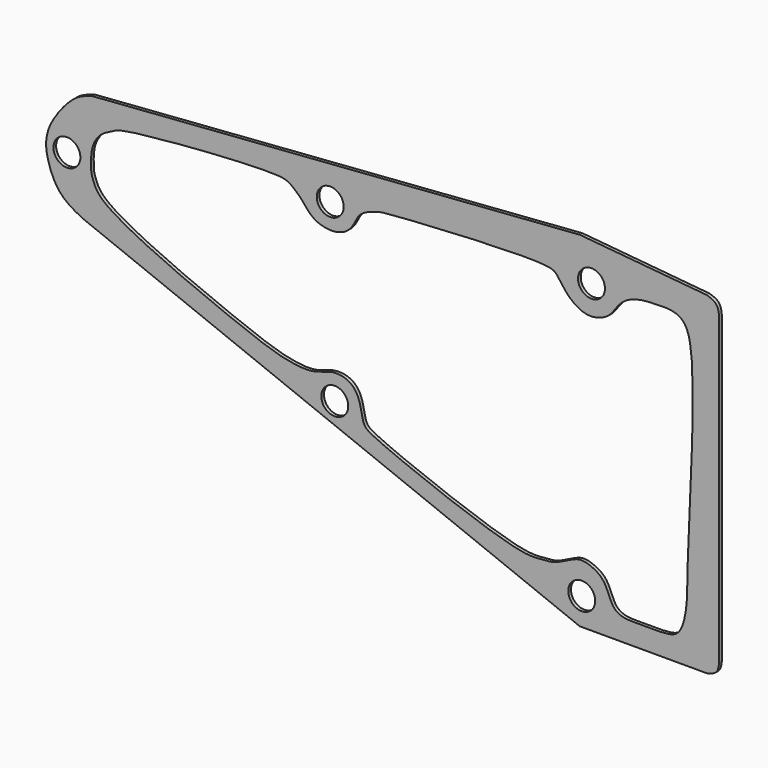
from build123d import *

# Parameters (mm, degrees)
F0_R     = 2
F1_DEPTH = 0.5


with BuildPart() as f1:
    # F0 (on Front) → F1 (new body)
    with BuildSketch(Plane.XZ):
        with BuildLine():
            Line((25.4466477782, 28.9929937571), (-46.9182245433, 23.5753022134))
            add(Edge.make_bspline(
                [(-46.9182245433, 23.5753022134), (-48.4807805487, 23.1375500148), (-49.4116474821, 22.5580963217), (-50.8578941044, 21.2783383598), (-52.6290423715, 18.9638750224), (-53.5570588992, 17.0342087667), (-53.9100611629, 15.0398825036), (-53.5076549067, 12.8899710969), (-52.5765177314, 10.4457062862), (-50.9809949034, 8.4937025788), (-49.2919931257, 7.5867975335), (-48.3693890274, 7.1287415922)],
                knots=[0, 0, 0, 0, 0.1213511642, 0.2152622966, 0.3377424682, 0.443523652, 0.5432608072, 0.6489424943, 0.7644282008, 0.8769296468, 1, 1, 1, 1], degree=3))
            Line((-48.3693890274, 7.1287415922), (25.4466477782, -22.1848357469))
            Line((25.4466477782, -22.1848357469), (44.3118214607, -22.1848357469))
            add(Edge.make_bspline(
                [(46.1499653757, -20.1532002538), (46.0819666478, -20.691468519), (45.9448246604, -21.7770649999), (44.8591759893, -22.0481580202), (44.3118214607, -22.1848357469)],
                knots=[0, 0, 0, 0, 0.4958272016, 1, 1, 1, 1], degree=3))
            Line((46.1499653757, -20.1532002538), (46.1499653757, 25.0264704227))
            add(Edge.make_bspline(
                [(44.3118214607, 27.251591906), (44.8449882872, 27.0679745153), (45.9112488782, 26.7007648959), (46.0703968449, 25.5845430853), (46.1499653757, 25.0264704227)],
                knots=[0, 0, 0, 0, 0.5000342609, 1, 1, 1, 1], degree=3))
            Line((44.3118214607, 27.251591906), (25.4466477782, 28.9929937571))
        make_face()
        with Locations((-10.929278098, -4.5773400925)):
            Circle(F0_R, mode=Mode.SUBTRACT)
        with Locations((25.7368758321, -18.1215666234)):
            Circle(F0_R, mode=Mode.SUBTRACT)
        with BuildLine():
            add(Edge.make_bspline(
                [(33.7738180693, -19.0182074534), (34.9672140156, -19.0316937436), (38.0025946611, -19.1219045421), (40.6762395444, -18.5025175473), (41.5226211193, -13.2918265819), (41.2153630254, -9.383872506), (43.0617042207, 18.6350495674), (40.8749263823, 23.1631701112), (38.5760349791, 23.6566085748), (36.9565591194, 23.5696087647), (34.8625816383, 23.5700913653), (32.2134035213, 22.8726510508), (30.787255847, 21.1819932228), (29.8692448336, 19.6918919842), (27.8068716337, 18.7863912223), (25.8470106574, 18.9119765337), (24.0937493228, 20.0735014977), (23.0783144521, 21.2170586261), (22.0289527753, 22.7483764117), (20.5865691025, 24.0367236619), (-2.5698304083, 22.5726843706), (-4.3731787831, 22.3301593387), (-7.2850918025, 21.3768610484), (-7.994693748, 19.4966384521), (-9.032408904, 18.1199503256), (-11.0810918869, 17.3191390471), (-13.7736430743, 17.871146372), (-15.1045634464, 19.2125687615), (-15.8647745957, 20.2752886816), (-17.5345750325, 21.7456156686), (-19.6038810275, 22.7270204197), (-42.4985788159, 20.9552108348), (-43.6796490109, 20.0295623492), (-45.569991097, 19.2275065849), (-46.6013032457, 17.8475350391), (-47.0579132951, 16.4713556806), (-47.1287437653, 15.0894155494), (-47.126086268, 13.4559839136), (-46.7296808896, 12.5185354278), (-45.7378812944, 9.199188193), (-24.9848492154, 0.6787750158), (-18.6334028273, -1.5488303574), (-14.0137089666, -2.0591557762), (-11.4551102695, -0.6131574726), (-8.5424937105, -1.0892838503), (-7.2389715634, -3.0429027437), (-6.9506370477, -5.0459203778), (-6.5600538848, -6.3934455545), (-5.2584467106, -7.6196136858), (15.9377224311, -15.8465724423), (19.4396835625, -15.2383287572), (21.5841674605, -15.2278149336), (23.7691842938, -14.0720199582), (25.5487420966, -13.2073294521), (27.5206830565, -13.8872162163), (28.9700626952, -14.8451859315), (29.784148794, -16.6839184497), (30.446171662, -18.3007782772), (31.9214219382, -19.0242103321), (32.9700571561, -19.0091243382), (33.7738180693, -19.0182074534)],
                knots=[0, 0, 0, 0, 0.0199057896, 0.0349869766, 0.0550254616, 0.0765469417, 0.1276476981, 0.1482840813, 0.1615861826, 0.1738908669, 0.1879297878, 0.2037952361, 0.2179440866, 0.2306441337, 0.2447383493, 0.2581889838, 0.2719432881, 0.2841307815, 0.2964978204, 0.3097608605, 0.3558225583, 0.3713276622, 0.3867904143, 0.4002446351, 0.4126544847, 0.4266676869, 0.4424702743, 0.4554676596, 0.4666448927, 0.4800154191, 0.4957331418, 0.5416041629, 0.5544965255, 0.5674200335, 0.5801211243, 0.591596242, 0.603145552, 0.6153273103, 0.6245365269, 0.6405558078, 0.6860242036, 0.7129421098, 0.7323596096, 0.7486778619, 0.7644033366, 0.7787638196, 0.7925865471, 0.8031578307, 0.8158541993, 0.8617764305, 0.8807770912, 0.8939354366, 0.9091025601, 0.9225421312, 0.9360243949, 0.9486884687, 0.9622987748, 0.9749721166, 0.9865933048, 1, 1, 1, 1], degree=3))
        make_face(mode=Mode.SUBTRACT)
        with Locations((-50.6962202489, 14.9948075414)):
            Circle(F0_R, mode=Mode.SUBTRACT)
        with Locations((-11.6064893082, 21.2534349412)):
            Circle(F0_R, mode=Mode.SUBTRACT)
        with Locations((27.1880440414, 23.1883246452)):
            Circle(F0_R, mode=Mode.SUBTRACT)
    extrude(amount=F1_DEPTH)


solid = f1.part
